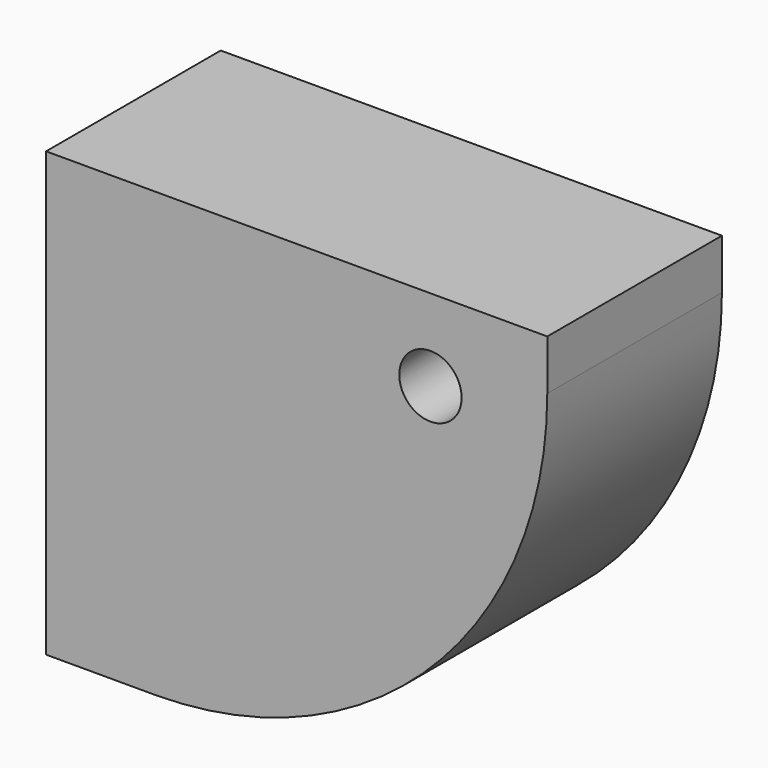
from build123d import *

# Parameters (mm, degrees)
F0_W     = 57.3965907097
F0_H     = 50.7467389107
F1_DEPTH = 12.5
F3_D     = 7.1374
F3_DEPTH = 12.501
F4_R     = 45


with BuildPart() as f1:
    # F0 (on Front) → F1 (new body, symmetric)
    with BuildSketch(Plane.XZ):
        Rectangle(F0_W, F0_H)
    extrude(amount=F1_DEPTH, both=True)

    # F3 (through all, one way)
    with BuildSketch(Plane(origin=(0, 0, 0), x_dir=(1, 0, 0), z_dir=(0, 1, 0))):
        with Locations((15.3181608766, -16.0046312958)):
            Circle(F3_D / 2)
    extrude(amount=-F3_DEPTH, mode=Mode.SUBTRACT)

    # F4
    f4_edges = [f1.edges().sort_by_distance(p)[0] for p in [
        (28.698295, 0, -25.373369),
    ]]
    fillet(f4_edges, radius=F4_R)


solid = f1.part
